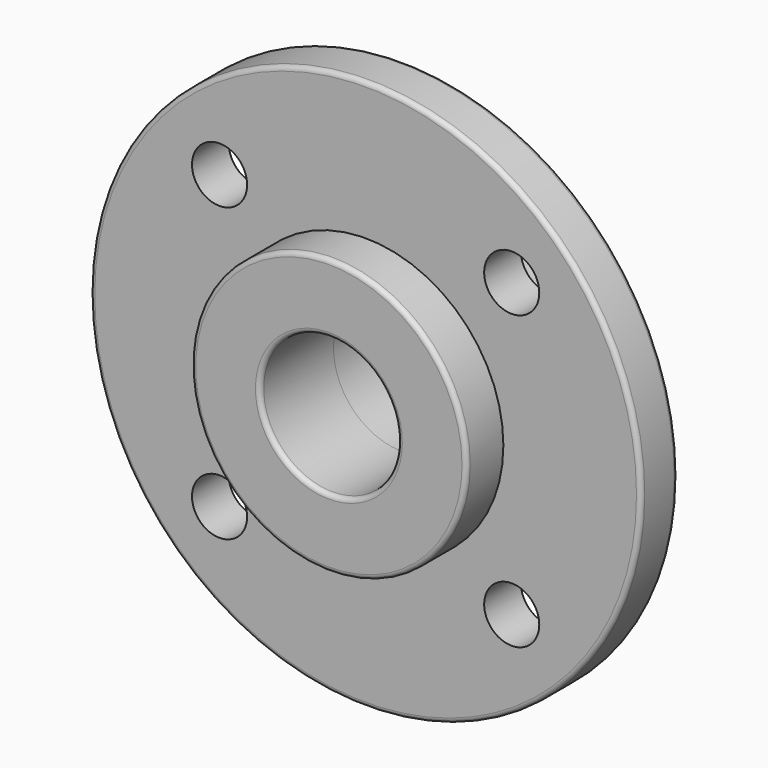
from build123d import *

# Parameters (mm, degrees)
F0_R     = 12
F0_R_2   = 1.2
F0_R_3   = 6
F1_DEPTH = 2
F0_R_4   = 3
F2_DEPTH = 4
F3_DEPTH = 3
F4_R     = 0.2


with BuildPart() as f1:
    # F0 (on Front) → F1 (new body)
    with BuildSketch(Plane.XZ):
        Circle(F0_R)
        with Locations((-6.363961, -6.363961)):
            Circle(F0_R_2, mode=Mode.SUBTRACT)
        with Locations((6.363961, -6.363961)):
            Circle(F0_R_2, mode=Mode.SUBTRACT)
        with Locations((-6.363961, 6.363961)):
            Circle(F0_R_2, mode=Mode.SUBTRACT)
        Circle(F0_R_3, mode=Mode.SUBTRACT)
        with Locations((6.363961, 6.363961)):
            Circle(F0_R_2, mode=Mode.SUBTRACT)
    extrude(amount=F1_DEPTH)

    # F0 (on Front) → F2 (join)
    with BuildSketch(Plane.XZ):
        Circle(F0_R_3)
        Circle(F0_R_4, mode=Mode.SUBTRACT)
    extrude(amount=F2_DEPTH)

    # F0 (on Front) → F3 (join)
    with BuildSketch(Plane.XZ):
        Circle(F0_R_3)
        Circle(F0_R_4, mode=Mode.SUBTRACT)
    extrude(amount=-F3_DEPTH)

    # F4
    f4_edges = [f1.edges().sort_by_distance(p)[0] for p in [
        (-3, -4, 0),
        (-6, -4, 0),
        (-12, -2, 0),
        (-12, 0, 0),
        (-6, 3, 0),
        (-3, 3, 0),
    ]]
    fillet(f4_edges, radius=F4_R)


solid = f1.part
